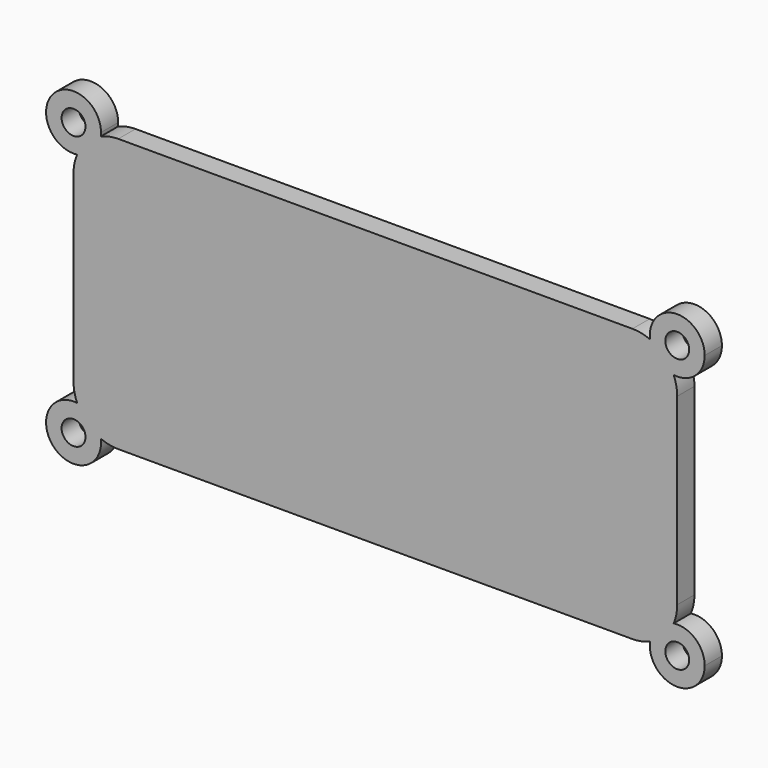
from build123d import *

# Parameters (mm, degrees)
F0_R     = 2.54
F1_DEPTH = 4.572


with BuildPart() as f1:
    # F0 (on Front) → F1 (new body)
    with BuildSketch(Plane.XZ):
        with BuildLine():
            ThreePointArc((-35.5842036575, 25.370251879), (-36.1537214171, 23.5422857364), (-36.3461524248, 21.6373497784))
            Line((-36.3461524248, 21.6373497784), (-36.3461524248, -17.4023394669))
            ThreePointArc((-36.3461524248, -17.4023394669), (-36.1537214171, -19.3072754249), (-35.5842036575, -21.1352415675))
            ThreePointArc((-35.5842036575, -21.1352415675), (-32.2152346091, -22.7964216512), (-30.5540545254, -26.1653906996))
            ThreePointArc((-30.5540545254, -26.1653906996), (-28.7260883828, -26.7349084592), (-26.8211524248, -26.9273394669))
            Line((-26.8211524248, -26.9273394669), (82.5152429771, -26.9273394669))
            ThreePointArc((82.5152429771, -26.9273394669), (84.4201789351, -26.7349084592), (86.2481450777, -26.1653906996))
            ThreePointArc((86.2481450777, -26.1653906996), (87.9093251614, -22.7964216512), (91.2782942098, -21.1352415675))
            ThreePointArc((91.2782942098, -21.1352415675), (91.8478119694, -19.3072754249), (92.0402429771, -17.4023394669))
            Line((92.0402429771, -17.4023394669), (92.0402429771, 21.6373497784))
            ThreePointArc((92.0402429771, 21.6373497784), (91.8478119694, 23.5422857364), (91.2782942098, 25.370251879))
            ThreePointArc((91.2782942098, 25.370251879), (87.9093251614, 27.0314319627), (86.2481450777, 30.4004010111))
            ThreePointArc((86.2481450777, 30.4004010111), (84.4201789351, 30.9699187707), (82.5152429771, 31.1623497784))
            Line((82.5152429771, 31.1623497784), (-26.8211524248, 31.1623497784))
            ThreePointArc((-26.8211524248, 31.1623497784), (-28.7260883828, 30.9699187707), (-30.5540545254, 30.4004010111))
            ThreePointArc((-30.5540545254, 30.4004010111), (-32.2152346091, 27.0314319627), (-35.5842036575, 25.370251879))
        make_face()
        with BuildLine():
            ThreePointArc((-30.5540545254, 30.4004010111), (-33.5563445156, 28.3725418692), (-35.5842036575, 25.370251879))
            ThreePointArc((-35.5842036575, 25.370251879), (-32.2152346091, 27.0314319627), (-30.5540545254, 30.4004010111))
        make_face()
        with BuildLine():
            ThreePointArc((-30.5041524248, 31.1623497784), (-40.7382059706, 35.0144699285), (-35.5842036575, 25.370251879))
            ThreePointArc((-35.5842036575, 25.370251879), (-33.5563445156, 28.3725418692), (-30.5540545254, 30.4004010111))
            ThreePointArc((-30.5540545254, 30.4004010111), (-30.5166412992, 30.7805592129), (-30.5041524248, 31.1623497784))
        make_face()
        with Locations((-36.3461524248, 31.1623497784)):
            Circle(F0_R, mode=Mode.SUBTRACT)
        with BuildLine():
            ThreePointArc((-30.5540545254, -26.1653906996), (-33.5563445156, -24.1375315577), (-35.5842036575, -21.1352415675))
            ThreePointArc((-35.5842036575, -21.1352415675), (-40.7382059706, -30.779459617), (-30.5041524248, -26.9273394669))
            ThreePointArc((-30.5041524248, -26.9273394669), (-30.5166412992, -26.5455489014), (-30.5540545254, -26.1653906996))
        make_face()
        with Locations((-36.3461524248, -26.9273394669)):
            Circle(F0_R, mode=Mode.SUBTRACT)
        with BuildLine():
            ThreePointArc((-30.5540545254, -26.1653906996), (-32.2152346091, -22.7964216512), (-35.5842036575, -21.1352415675))
            ThreePointArc((-35.5842036575, -21.1352415675), (-33.5563445156, -24.1375315577), (-30.5540545254, -26.1653906996))
        make_face()
        with BuildLine():
            ThreePointArc((91.2782942098, 25.370251879), (89.2504350679, 28.3725418692), (86.2481450777, 30.4004010111))
            ThreePointArc((86.2481450777, 30.4004010111), (87.9093251614, 27.0314319627), (91.2782942098, 25.370251879))
        make_face()
        with BuildLine():
            ThreePointArc((97.8822429771, 31.1623497784), (91.6584524116, 36.9918609041), (86.2481450777, 30.4004010111))
            ThreePointArc((86.2481450777, 30.4004010111), (89.2504350679, 28.3725418692), (91.2782942098, 25.370251879))
            ThreePointArc((91.2782942098, 25.370251879), (95.8923631272, 26.7702962326), (97.8822429771, 31.1623497784))
        make_face()
        with Locations((92.0402429771, 31.1623497784)):
            Circle(F0_R, mode=Mode.SUBTRACT)
        with BuildLine():
            ThreePointArc((91.2782942098, -21.1352415675), (89.2504350679, -24.1375315577), (86.2481450777, -26.1653906996))
            ThreePointArc((86.2481450777, -26.1653906996), (91.6584524116, -32.7568505925), (97.8822429771, -26.9273394669))
            ThreePointArc((97.8822429771, -26.9273394669), (95.8923631272, -22.5352859211), (91.2782942098, -21.1352415675))
        make_face()
        with Locations((92.0402429771, -26.9273394669)):
            Circle(F0_R, mode=Mode.SUBTRACT)
        with BuildLine():
            ThreePointArc((91.2782942098, -21.1352415675), (87.9093251614, -22.7964216512), (86.2481450777, -26.1653906996))
            ThreePointArc((86.2481450777, -26.1653906996), (89.2504350679, -24.1375315577), (91.2782942098, -21.1352415675))
        make_face()
    extrude(amount=F1_DEPTH)


solid = f1.part
